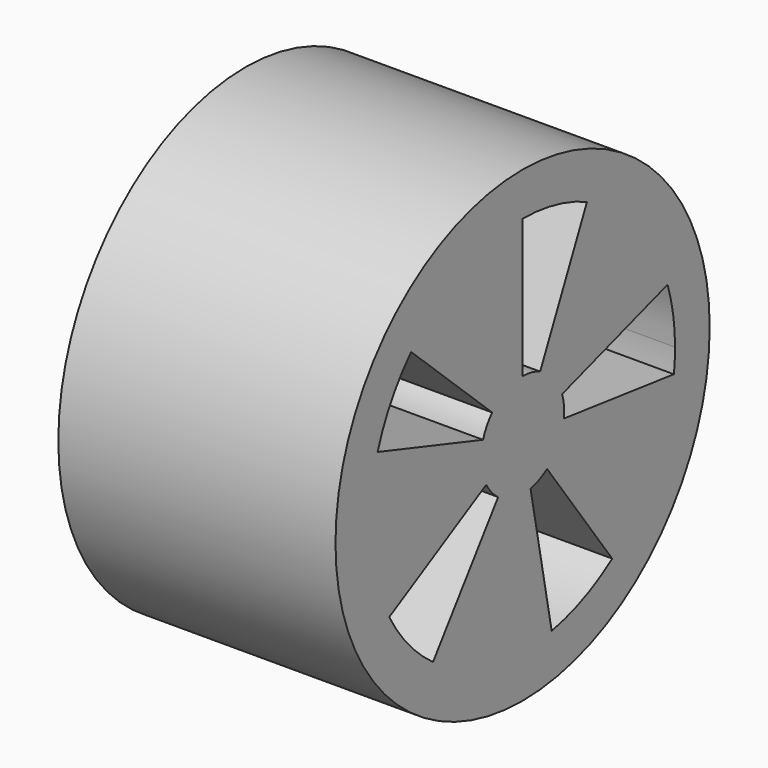
from build123d import *

# Parameters (mm, degrees)
F0_R     = 6.75
F1_DEPTH = 8
F3_DEPTH = 8.001


with BuildPart() as f1:
    # F0 (on Right) → F1 (new body)
    with BuildSketch(Plane.YZ):
        with Locations((-38.786523, 29.946476)):
            Circle(F0_R)
    extrude(amount=F1_DEPTH)

    # F2 (on face) → F3 (cut, through all)
    with BuildSketch(Plane.YZ.offset(8)):
        with BuildLine():
            Line((-38.152596, 31.305938), (-36.462123, 34.931169))
            ThreePointArc((-36.462123, 34.931169), (-37.596105, 35.316104), (-38.786523, 35.446476))
            Line((-38.786523, 35.446476), (-38.786523, 31.446476))
            ThreePointArc((-38.786523, 31.446476), (-38.461864, 31.41092), (-38.152596, 31.305938))
        make_face()
        with BuildLine():
            Line((-39.883554, 30.969474), (-42.808968, 33.697467))
            ThreePointArc((-42.808968, 33.697467), (-43.525483, 32.737937), (-44.017334, 31.64607))
            Line((-44.017334, 31.64607), (-40.213108, 30.410002))
            ThreePointArc((-40.213108, 30.410002), (-40.078967, 30.707784), (-39.883554, 30.969474))
        make_face()
        with BuildLine():
            ThreePointArc((-43.596931, 27.280023), (-42.90578, 26.302066), (-42.019342, 25.496883))
            Line((-42.019342, 25.496883), (-39.668201, 28.732951))
            ThreePointArc((-39.668201, 28.732951), (-39.909957, 28.952546), (-40.098453, 29.219262))
            Line((-40.098453, 29.219262), (-43.596931, 27.280023))
        make_face()
        with BuildLine():
            ThreePointArc((-37.737074, 24.547527), (-36.593403, 24.902646), (-35.553704, 25.496883))
            Line((-35.553704, 25.496883), (-37.904845, 28.732951))
            ThreePointArc((-37.904845, 28.732951), (-38.188399, 28.570886), (-38.50031, 28.474035))
            Line((-38.50031, 28.474035), (-37.737074, 24.547527))
        make_face()
        with BuildLine():
            ThreePointArc((-33.327519, 29.276195), (-33.296782, 29.610709), (-33.286523, 29.946476))
            ThreePointArc((-33.286523, 29.946476), (-33.354237, 30.806866), (-33.555712, 31.64607))
            Line((-33.555712, 31.64607), (-37.359938, 30.410002))
            ThreePointArc((-37.359938, 30.410002), (-37.304991, 30.181128), (-37.286523, 29.946476))
            ThreePointArc((-37.286523, 29.946476), (-37.289321, 29.854903), (-37.297704, 29.763672))
            Line((-37.297704, 29.763672), (-33.327519, 29.276195))
        make_face()
    extrude(amount=-F3_DEPTH, mode=Mode.SUBTRACT)


solid = f1.part
